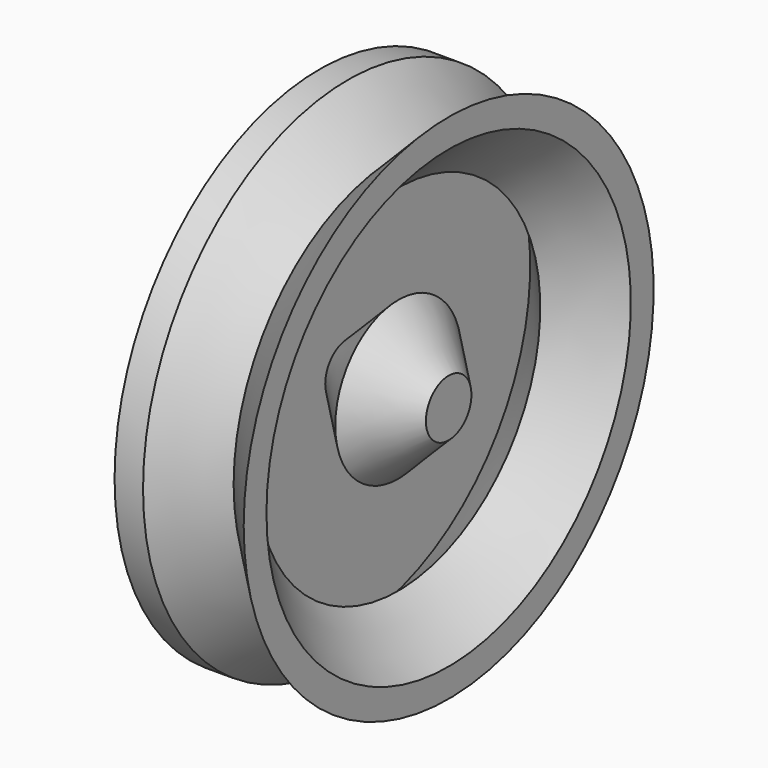
from build123d import *


with BuildPart() as f1:
    # F0 (on Top) → F1 (revolve)
    with BuildSketch(Plane.XY):
        Polygon((4, 0), (0, 0), (0, -36), (4, -36), (11.071068, -28.928932), (18.142136, -36), (18.142136, -32), (11.071068, -24.928932), (4, -32), (4, -4), (11.071068, -11.071068), (18.142136, -4), (18.142136, 0), (11.071068, -7.071068), align=None)
        Polygon((18.142136, 0), (4, 0), (11.071068, -7.071068), align=None)
    revolve(axis=Axis((11.071068, 0, 0), (1, 0, 0)))


solid = f1.part
